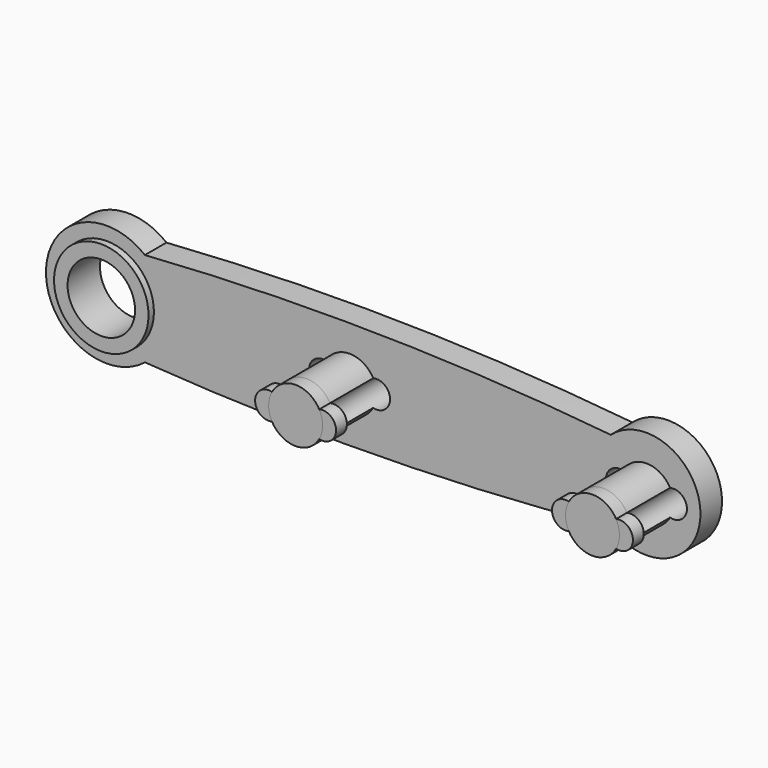
from build123d import *

# Parameters (mm, degrees)
F1_DEPTH  = 1
F2_R      = 3.5
F3_DEPTH  = 1.5
F4_R      = 2.5
F5_DEPTH  = 3.001
F6_R      = 2
F7_DEPTH  = 5
F9_DEPTH  = 1
F10_R     = 1
F11_DEPTH = 6


with BuildPart() as f1:
    # F0 (on Front) → F1 (new body, symmetric)
    with BuildSketch(Plane.XZ):
        with BuildLine():
            ThreePointArc((37.3542486889, 3), (20.1018882017, 3.9785151955), (2.8284271247, 3.5))
            ThreePointArc((2.8284271247, 3.5), (-4.5, 0), (2.8284271247, -3.5))
            ThreePointArc((2.8284271247, -3.5), (20.1018882017, -3.9785151955), (37.3542486889, -3))
            ThreePointArc((37.3542486889, -3), (44, 0), (37.3542486889, 3))
        make_face()
    extrude(amount=F1_DEPTH, both=True)

    # F2 (on Front) → F3 (join, symmetric)
    with BuildSketch(Plane.XZ):
        Circle(F2_R)
    extrude(amount=F3_DEPTH, both=True)

    # F4 (on face) → F5 (cut, through all)
    with BuildSketch(Plane.XZ.offset(1.5)):
        Circle(F4_R)
    extrude(amount=-F5_DEPTH, mode=Mode.SUBTRACT)

    # F6 (on face) → F7 (join)
    with BuildSketch(Plane.XZ.offset(1)):
        with Locations((18, 0)):
            Circle(F6_R)
        with Locations((40, 0)):
            Circle(F6_R)
    extrude(amount=F7_DEPTH)

    # F8 (on face) → F9 (join)
    with BuildSketch(Plane.XZ.offset(6)):
        with BuildLine():
            ThreePointArc((16.25, -0.9682458366), (16, 0), (16.25, 0.9682458366))
            ThreePointArc((16.25, 0.9682458366), (15, 0), (16.25, -0.9682458366))
        make_face()
        with BuildLine():
            ThreePointArc((19.75, -0.9682458366), (21, 0), (19.75, 0.9682458366))
            ThreePointArc((19.75, 0.9682458366), (19.9364916731, 0.5), (20, 0))
            ThreePointArc((20, 0), (19.9364916731, -0.5), (19.75, -0.9682458366))
        make_face()
        with BuildLine():
            ThreePointArc((41.75, -0.9682458366), (43, 0), (41.75, 0.9682458366))
            ThreePointArc((41.75, 0.9682458366), (40, 2), (38.25, 0.9682458366))
            ThreePointArc((38.25, 0.9682458366), (37, 0), (38.25, -0.9682458366))
            ThreePointArc((38.25, -0.9682458366), (40, -2), (41.75, -0.9682458366))
        make_face()
        with BuildLine():
            ThreePointArc((20, 0), (19.9364916731, 0.5), (19.75, 0.9682458366))
            ThreePointArc((19.75, 0.9682458366), (18, 2), (16.25, 0.9682458366))
            ThreePointArc((16.25, 0.9682458366), (16, 0), (16.25, -0.9682458366))
            ThreePointArc((16.25, -0.9682458366), (18, -2), (19.75, -0.9682458366))
            ThreePointArc((19.75, -0.9682458366), (19.9364916731, -0.5), (20, 0))
        make_face()
    extrude(amount=-F9_DEPTH)

    # F10 (on face) → F11 (cut, through all)
    with BuildSketch(Plane(origin=(0, 1, 0), x_dir=(-1, 0, 0), z_dir=(0, 1, 0))):
        with Locations((-42, 0)):
            Circle(F10_R)
        with Locations((-38, 0)):
            Circle(F10_R)
        with Locations((-20, 0)):
            Circle(F10_R)
        with Locations((-16, 0)):
            Circle(F10_R)
    extrude(amount=-F11_DEPTH, mode=Mode.SUBTRACT)


solid = f1.part
